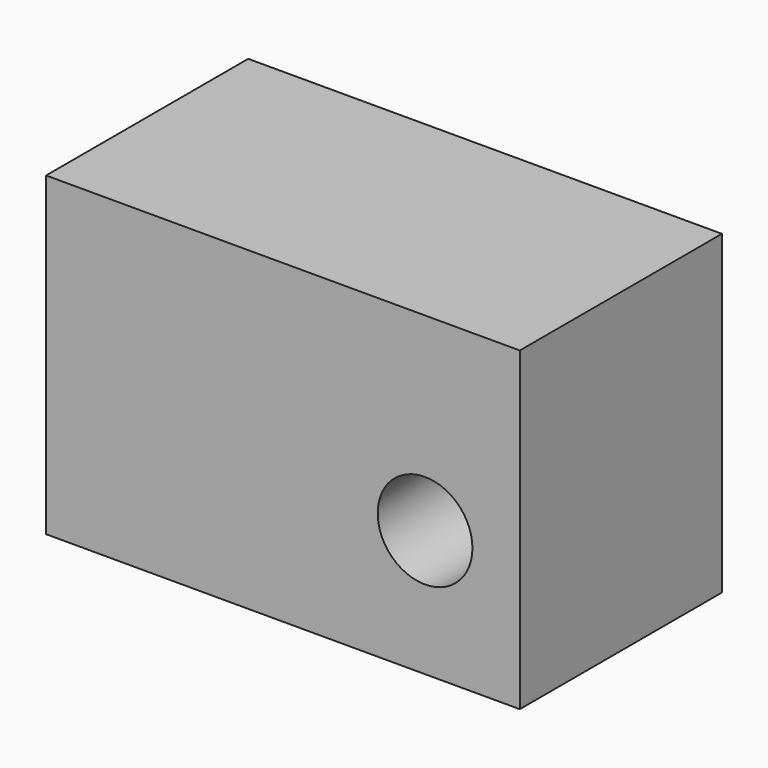
from build123d import *

# Parameters (mm, degrees)
F1_DEPTH = 20
F2_R     = 7.5
F3_DEPTH = 40


with BuildPart() as f1:
    # F0 (on Front) → F1 (new body, symmetric)
    with BuildSketch(Plane.XZ):
        Polygon((-60, -20), (0, -20), (15, -20), (15, 0), (15, 30), (-60, 30), align=None)
    extrude(amount=F1_DEPTH, both=True)

    # F2 (on face) → F3 (cut, through all)
    with BuildSketch(Plane.XZ.offset(20)):
        Circle(F2_R)
    extrude(amount=-F3_DEPTH, mode=Mode.SUBTRACT)


solid = f1.part
